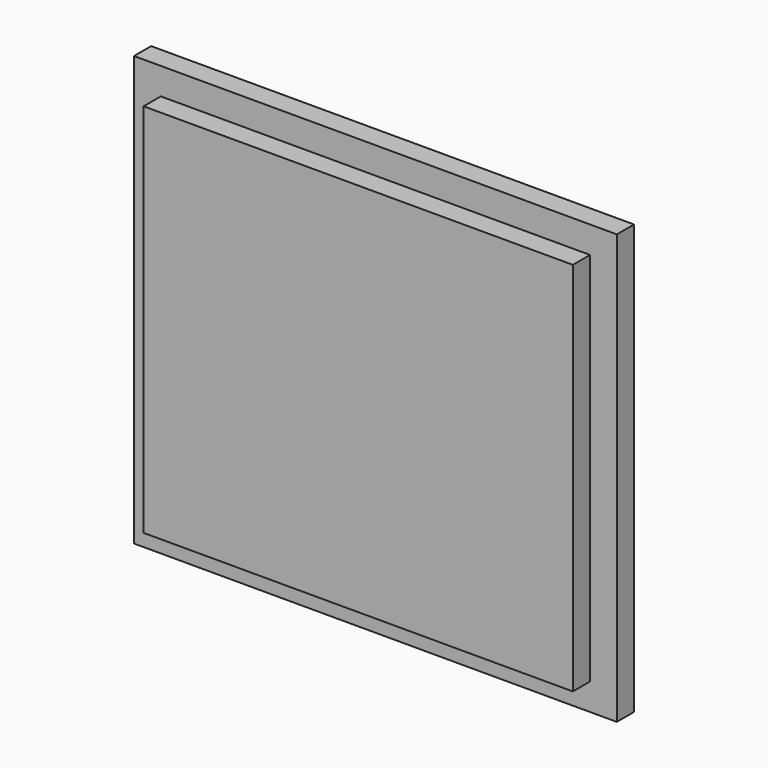
from build123d import *

# Parameters (mm, degrees)
F0_W     = 80
F0_H     = 70
F1_DEPTH = 8
F0_W_2   = 90
F0_H_2   = 80
F2_DEPTH = 4


with BuildPart() as f1:
    # F0 (on Front) → F1 (new body)
    with BuildSketch(Plane.XZ):
        with Locations((-24.993528, 20.407559)):
            Rectangle(F0_W, F0_H)
    extrude(amount=F1_DEPTH)

    # F0 (on Front) → F2 (join)
    with BuildSketch(Plane.XZ):
        with Locations((-24.993528, 20.407559)):
            Rectangle(F0_W_2, F0_H_2)
        with Locations((-24.993528, 20.407559)):
            Rectangle(F0_W, F0_H, mode=Mode.SUBTRACT)
    extrude(amount=F2_DEPTH)


solid = f1.part
